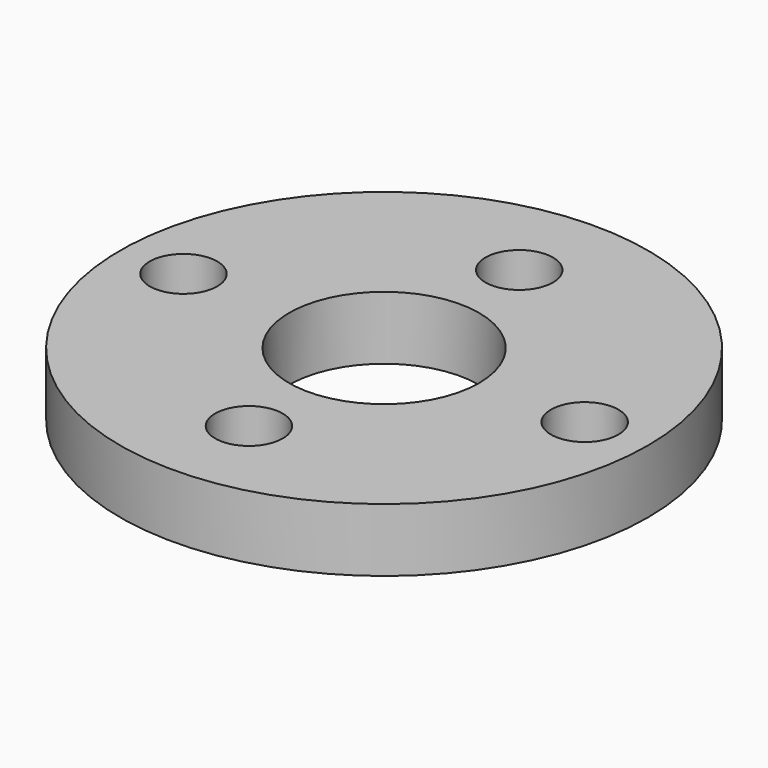
from build123d import *

# Parameters (mm, degrees)
SKETCH_R   = 12.5
SKETCH_R_2 = 1.6
SKETCH_R_3 = 4.5
PAD_DEPTH  = 3


with BuildPart() as part:
    # Sketch → Pad (new body)
    with BuildSketch(Plane.XY):
        Circle(SKETCH_R)
        with Locations((0, 8)):
            Circle(SKETCH_R_2, mode=Mode.SUBTRACT)
        with Locations((0, -8)):
            Circle(SKETCH_R_2, mode=Mode.SUBTRACT)
        with Locations((9.5, 0)):
            Circle(SKETCH_R_2, mode=Mode.SUBTRACT)
        with Locations((-9.5, 0)):
            Circle(SKETCH_R_2, mode=Mode.SUBTRACT)
        Circle(SKETCH_R_3, mode=Mode.SUBTRACT)
    extrude(amount=PAD_DEPTH)


solid = part.part
